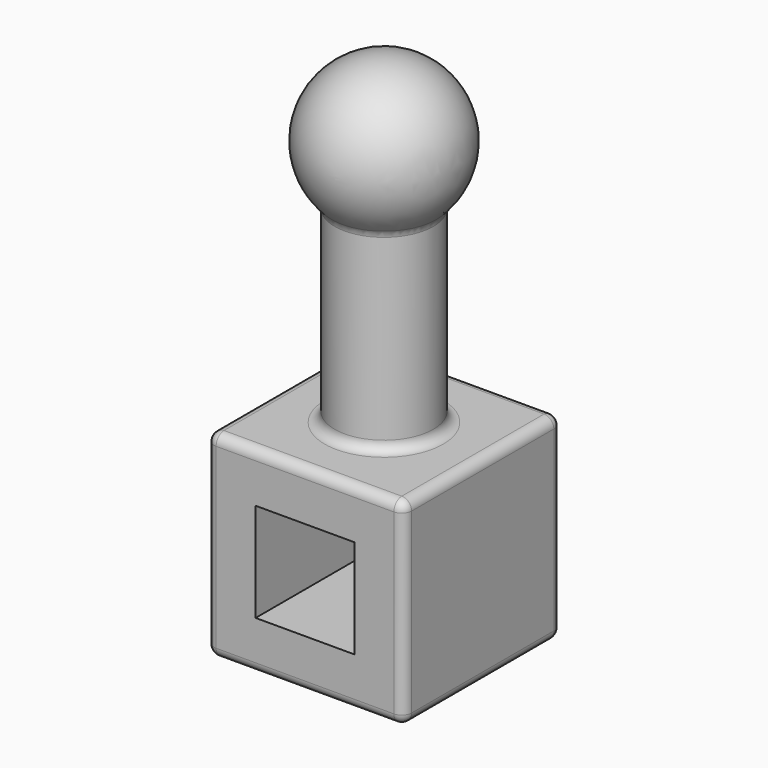
from build123d import *

# Parameters (mm, degrees)
F0_W     = 101.6
F0_H     = 101.6
F1_DEPTH = 101.6
F2_R     = 25.4
F3_DEPTH = 127.508
F6_W     = 50.8
F6_H     = 50.8
F7_DEPTH = 101.6
F8_R     = 5.08


with BuildPart() as f1:
    # F0 (on Top) → F1 (new body)
    with BuildSketch(Plane.XY):
        Rectangle(F0_W, F0_H)
    extrude(amount=F1_DEPTH)

    # F2 (on face) → F3 (join)
    with BuildSketch(Plane.XY.offset(101.6)):
        Circle(F2_R)
    extrude(amount=F3_DEPTH)

    # F4 (on face) → F5 (revolve)
    with BuildSketch(Plane.XY.offset(229.108)):
        with BuildLine():
            Line((0, -25.4), (0, -38.1))
            ThreePointArc((0, -38.1), (38.1, 0), (0, 38.1))
            Line((0, 38.1), (0, 25.4))
            ThreePointArc((0, 25.4), (17.9605122421, 17.9605122421), (25.4, 0))
            ThreePointArc((25.4, 0), (17.9605122421, -17.9605122421), (0, -25.4))
        make_face()
        with BuildLine():
            ThreePointArc((0, 25.4), (-25.4, 0), (0, -25.4))
            Line((0, -25.4), (0, 25.4))
        make_face()
    revolve(axis=Axis((0, 0, 229.108), (0, -1, 0)))

    # F6 (on face) → F7 (cut)
    with BuildSketch(Plane.XZ.offset(50.8)):
        with Locations((0, 50.8)):
            Rectangle(F6_W, F6_H)
    extrude(amount=-F7_DEPTH, mode=Mode.SUBTRACT)

    # F8
    f8_edges = [f1.edges().sort_by_distance(p)[0] for p in [
        (0, -50.8, 101.6),
        (-50.8, 0, 101.6),
        (50.8, 0, 101.6),
        (0, 50.8, 101.6),
        (50.8, -50.8, 50.8),
        (50.8, 50.8, 50.8),
        (50.8, 0, 0),
        (0, -50.8, 0),
        (-50.8, -50.8, 50.8),
        (-50.8, 50.8, 50.8),
        (-50.8, 0, 0),
        (0, 50.8, 0),
        (-25.4, 0, 200.709937),
        (-25.4, 0, 101.6),
    ]]
    fillet(f8_edges, radius=F8_R)


solid = f1.part
